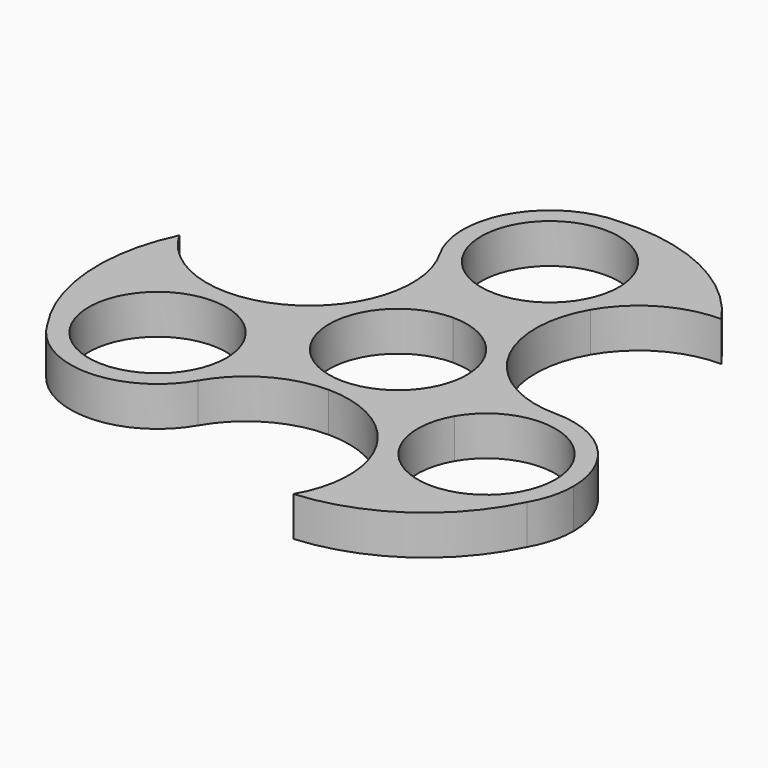
from build123d import *

# Parameters (mm, degrees)
F1_DEPTH = 6.35


with BuildPart() as f1:
    # F0 (on Top) → F1 (new body)
    with BuildSketch(Plane.XY):
        with BuildLine():
            ThreePointArc((12.0983748909, -6.985), (13.4939837933, -3.6157020601), (13.97, 0))
            ThreePointArc((13.97, 0), (13.4939837722, 3.6157021388), (12.0983748093, 6.9850001412))
            ThreePointArc((12.0983748093, 6.9850001412), (6.9849999294, 12.0983749316), (0, 13.97))
            Line((0, 13.97), (0, 11.049))
            ThreePointArc((0, 11.049), (7.8128228253, 7.8128228253), (11.049, 0))
            ThreePointArc((11.049, 0), (10.6725144547, -2.8596916293), (9.5687146864, -5.5245))
            Line((9.5687146864, -5.5245), (12.0983748909, -6.985))
        make_face()
        with BuildLine():
            ThreePointArc((12.0983748093, 6.9850001412), (13.4939837722, 3.6157021388), (13.97, 0))
            ThreePointArc((13.97, 0), (13.4939837933, -3.6157020601), (12.0983748909, -6.985))
            Line((12.0983748909, -6.985), (14.2980794165, -8.255))
            ThreePointArc((14.2980794165, -8.255), (19.4114543073, -3.1416251091), (26.3964543073, -1.27))
            ThreePointArc((26.3964543073, -1.27), (18.1414542367, 0.9419206243), (12.0983748093, 6.9850001412))
        make_face()
        with BuildLine():
            ThreePointArc((0, 13.97), (6.9849999294, 12.0983749316), (12.0983748093, 6.9850001412))
            ThreePointArc((12.0983748093, 6.9850001412), (9.8864543073, 15.2400001643), (12.0983749736, 23.4950001433))
            ThreePointArc((12.0983749736, 23.4950001433), (6.9850000717, 18.3816251505), (0, 16.51))
            Line((0, 16.51), (0, 13.97))
        make_face()
        with BuildLine():
            Line((14.2980794165, -8.255), (12.0983748909, -6.985))
            ThreePointArc((12.0983748909, -6.985), (6.9849999924, -12.0983748953), (-1.75e-08, -13.97))
            ThreePointArc((-1.75e-08, -13.97), (8.2549997825, -16.1819204579), (14.2980791741, -22.2249995801))
            ThreePointArc((14.2980791741, -22.2249995801), (12.4264543073, -15.2399997576), (14.2980794165, -8.255))
        make_face()
        with BuildLine():
            ThreePointArc((-1.75e-08, -13.97), (6.9849999924, -12.0983748953), (12.0983748909, -6.985))
            Line((12.0983748909, -6.985), (9.5687146864, -5.5245))
            ThreePointArc((9.5687146864, -5.5245), (5.5245, -9.5687146864), (0, -11.049))
            Line((0, -11.049), (0, -13.97))
        make_face()
        with BuildLine():
            Line((0, 11.049), (0, 13.97))
            ThreePointArc((0, 13.97), (-6.9849999217, 12.0983749361), (-12.0983748005, 6.9850001566))
            ThreePointArc((-12.0983748005, 6.9850001566), (-13.97, 9.04e-08), (-12.0983748909, -6.985))
            Line((-12.0983748909, -6.985), (-9.5687146864, -5.5245))
            ThreePointArc((-9.5687146864, -5.5245), (-9.5687146864, 5.5245), (0, 11.049))
        make_face()
        with BuildLine():
            ThreePointArc((-12.0983748005, 6.9850001566), (-6.9849999217, 12.0983749361), (0, 13.97))
            Line((0, 13.97), (0, 16.51))
            ThreePointArc((0, 16.51), (-6.985, 18.3816251091), (-12.0983748909, 23.495))
            ThreePointArc((-12.0983748909, 23.495), (-9.8864543073, 15.2400000904), (-12.0983748005, 6.9850001566))
        make_face()
        with BuildLine():
            ThreePointArc((0, 16.51), (6.9850000717, 18.3816251505), (12.0983749736, 23.4950001433))
            ThreePointArc((12.0983749736, 23.4950001433), (13.4939838147, 26.8642980198), (13.97, 30.48))
            ThreePointArc((13.97, 30.48), (9.8782817332, 40.3582817332), (0, 44.45))
            ThreePointArc((0, 44.45), (-12.0983748909, 37.465), (-12.0983748909, 23.495))
            ThreePointArc((-12.0983748909, 23.495), (-6.985, 18.3816251091), (0, 16.51))
        make_face()
        with BuildLine():
            ThreePointArc((11.049, 30.48), (7.8128228253, 22.6671771747), (0, 19.431))
            ThreePointArc((0, 19.431), (-7.8128228253, 38.2928228253), (11.049, 30.48))
        make_face(mode=Mode.SUBTRACT)
        with BuildLine():
            ThreePointArc((13.97, 30.48), (13.4939838147, 26.8642980198), (12.0983749736, 23.4950001433))
            ThreePointArc((12.0983749736, 23.4950001433), (18.1816159378, 29.56119166), (26.4891280047, 31.7497399006))
            ThreePointArc((26.4891280047, 31.7497399006), (14.9430220942, 41.6423701395), (0, 44.45))
            ThreePointArc((0, 44.45), (9.8782817332, 40.3582817332), (13.97, 30.48))
        make_face()
        with BuildLine():
            ThreePointArc((40.3664543073, -15.24), (36.2747360405, -5.3617182668), (26.3964543073, -1.27))
            ThreePointArc((26.3964543073, -1.27), (19.4114543073, -3.1416251091), (14.2980794165, -8.255))
            ThreePointArc((14.2980794165, -8.255), (12.4264543073, -15.2399997576), (14.2980791741, -22.2249995801))
            ThreePointArc((14.2980791741, -22.2249995801), (26.3964540649, -29.21), (38.4948291982, -22.225))
            ThreePointArc((38.4948291982, -22.225), (39.8904381006, -18.8557020601), (40.3664543073, -15.24))
        make_face()
        with BuildLine():
            ThreePointArc((37.4454543073, -15.24), (23.536762678, -25.9125144547), (16.8277396209, -9.7155))
            ThreePointArc((16.8277396209, -9.7155), (29.2561459367, -4.5674855453), (37.4454543073, -15.24))
        make_face(mode=Mode.SUBTRACT)
        with BuildLine():
            ThreePointArc((-14.2980794165, -22.225), (-8.2550000076, -16.1819205879), (-1.75e-08, -13.97))
            ThreePointArc((-1.75e-08, -13.97), (-6.9850000076, -12.0983748865), (-12.0983748909, -6.985))
            Line((-12.0983748909, -6.985), (-14.2980794165, -8.255))
            ThreePointArc((-14.2980794165, -8.255), (-12.9024705141, -11.6242979399), (-12.4264543073, -15.24))
            ThreePointArc((-12.4264543073, -15.24), (-12.9024705141, -18.8557020601), (-14.2980794165, -22.225))
        make_face()
        with BuildLine():
            ThreePointArc((-12.0983748909, -6.985), (-6.9850000076, -12.0983748865), (-1.75e-08, -13.97))
            Line((0, -13.97), (0, -11.049))
            ThreePointArc((0, -11.049), (-5.5245, -9.5687146864), (-9.5687146864, -5.5245))
            Line((-9.5687146864, -5.5245), (-12.0983748909, -6.985))
        make_face()
        with BuildLine():
            ThreePointArc((-12.0983748909, -6.985), (-13.97, 9.04e-08), (-12.0983748005, 6.9850001566))
            ThreePointArc((-12.0983748005, 6.9850001566), (-18.1414542291, 0.9419206287), (-26.3964543073, -1.27))
            ThreePointArc((-26.3964543073, -1.27), (-19.4114543073, -3.1416251091), (-14.2980794165, -8.255))
            Line((-14.2980794165, -8.255), (-12.0983748909, -6.985))
        make_face()
        with BuildLine():
            ThreePointArc((38.4948291982, -22.225), (26.3964540649, -29.21), (14.2980791741, -22.2249995801))
            ThreePointArc((14.2980791741, -22.2249995801), (16.5099349757, -30.5263367888), (14.2515173151, -38.8151277265))
            ThreePointArc((14.2515173151, -38.8151277265), (28.5918393675, -33.7622218126), (38.4948291982, -22.225))
        make_face()
        with BuildLine():
            ThreePointArc((-38.4948291982, -22.225), (-26.3964543073, -29.21), (-14.2980794165, -22.225))
            ThreePointArc((-14.2980794165, -22.225), (-12.9024705141, -18.8557020601), (-12.4264543073, -15.24))
            ThreePointArc((-12.4264543073, -15.24), (-12.9024705141, -11.6242979399), (-14.2980794165, -8.255))
            ThreePointArc((-14.2980794165, -8.255), (-19.4114543073, -3.1416251091), (-26.3964543073, -1.27))
            ThreePointArc((-26.3964543073, -1.27), (-38.4948291982, -8.255), (-38.4948291982, -22.225))
        make_face()
        with BuildLine():
            ThreePointArc((-15.3474543073, -15.24), (-37.068968762, -18.0996916293), (-16.8277396209, -9.7155))
            ThreePointArc((-16.8277396209, -9.7155), (-15.7239398527, -12.3803083707), (-15.3474543073, -15.24))
        make_face(mode=Mode.SUBTRACT)
        with BuildLine():
            ThreePointArc((-38.4948291982, -22.225), (-38.4948291982, -8.255), (-26.3964543073, -1.27))
            ThreePointArc((-26.3964543073, -1.27), (-34.691550841, 0.9651454124), (-40.7406453198, 7.0653878259))
            ThreePointArc((-40.7406453198, 7.0653878259), (-43.5348614617, -7.8801483269), (-38.4948291982, -22.225))
        make_face()
    extrude(amount=F1_DEPTH)


solid = f1.part
